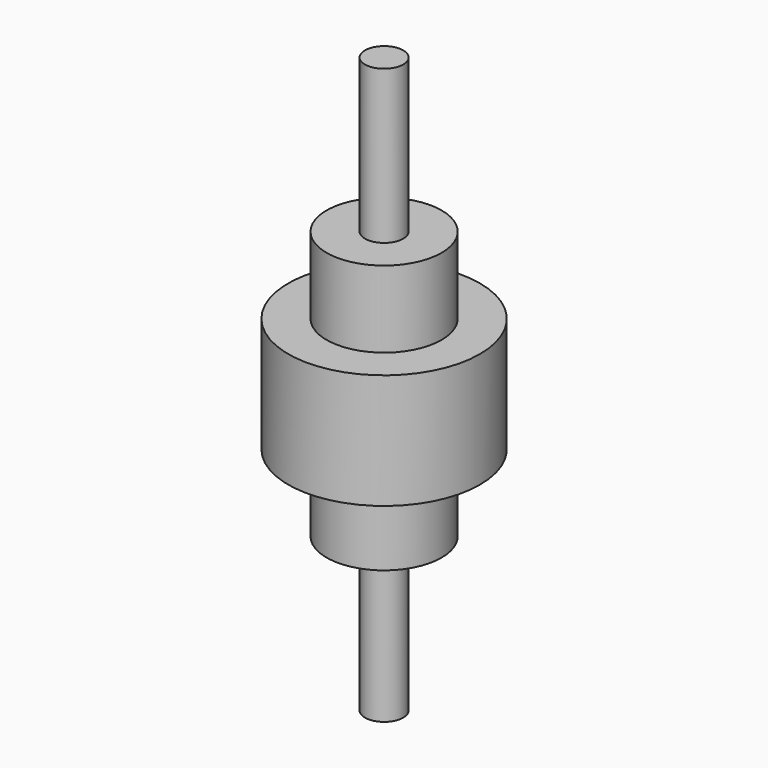
from build123d import *

# Parameters (mm, degrees)
F0_R     = 10
F1_DEPTH = 150
F0_R_2   = 50
F0_R_3   = 30
F2_DEPTH = 30
F3_DEPTH = 70


with BuildPart() as f1:
    # F0 (on Top) → F1 (new body, symmetric)
    with BuildSketch(Plane.XY):
        Circle(F0_R)
    extrude(amount=F1_DEPTH, both=True)


with BuildPart() as f2:
    # F0 (on Top) → F2 (new body, symmetric)
    with BuildSketch(Plane.XY):
        Circle(F0_R_2)
        Circle(F0_R_3, mode=Mode.SUBTRACT)
    extrude(amount=F2_DEPTH, both=True)


with BuildPart() as f3:
    # F0 (on Top) → F3 (new body, symmetric)
    with BuildSketch(Plane.XY):
        Circle(F0_R_3)
        Circle(F0_R, mode=Mode.SUBTRACT)
    extrude(amount=F3_DEPTH, both=True)


solid = Compound([f1.part, f2.part, f3.part])
